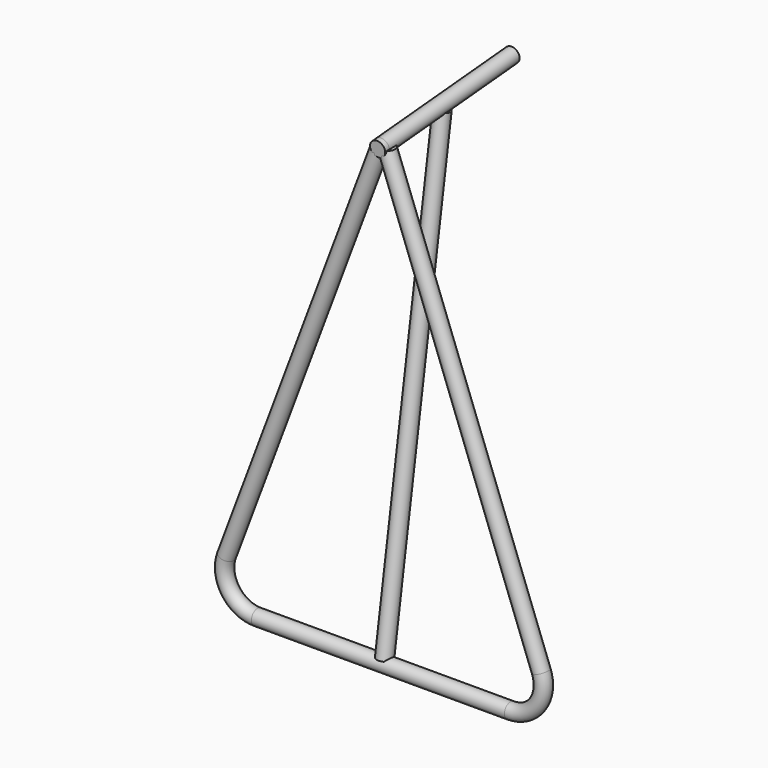
from build123d import *

# Parameters (mm, degrees)
F3_R           = 9
F7_W           = 211.4251245066
F7_H           = 70.145696709
F8_DEPTH       = 12.5
F9_R           = 9
F10_DEPTH      = 194
F10_DEPTH_BACK = 6
F16_START      = 5
F15_R          = 9
F16_DEPTH      = 545


with BuildPart() as f4:
    # F4: sweep along a path in F1
    with BuildLine(Plane.XZ) as f4_path:
        Line((-150, -39), (150, -39))
        ThreePointArc((150, -39), (182.0556281104, -22.2134352689), (186.5161856429, 13.6955535155))
        Line((186.5161856429, 13.6955535155), (0, 511))
        Line((0, 511), (-186.5161856429, 13.6955535155))
        ThreePointArc((-186.5161856429, 13.6955535155), (-182.0556281104, -22.2134352689), (-150, -39))
    # F3 (on line) → F4 (sweep)
    with BuildSketch(Plane.YZ.offset(150)):
        with Locations((0, -39)):
            Circle(F3_R)
    sweep(path=f4_path.line, transition=Transition.RIGHT)

    # F7 (on Front) → F8 (cut, symmetric)
    with BuildSketch(Plane.XZ):
        with Locations((16.5445394814, 537.0728483545)):
            Rectangle(F7_W, F7_H)
    extrude(amount=F8_DEPTH, both=True, mode=Mode.SUBTRACT)

    # F9 (on face) → F10 (join, two sides)
    with BuildSketch(Plane(origin=(0, 40.1639663204, 3.5138917353), x_dir=(-1, 0, 0), z_dir=(0, 0.9961946981, 0.0871557427))) as f10_sk:
        with Locations((0, 500.8241835071)):
            Circle(F9_R)
    extrude(amount=F10_DEPTH)
    extrude(f10_sk.sketch, amount=-F10_DEPTH_BACK)


with BuildPart() as f16:
    # F15 (on line) → F16 (new body)
    with BuildSketch(Plane(origin=(0, -6.0258313903, -38.0456020678), x_dir=(1, 0, 0), z_dir=(0, 0.156434465, 0.9876883406)).offset(F16_START)):
        with Locations((0, 6.1009441366)):
            Circle(F15_R)
    extrude(amount=F16_DEPTH)

    # F17: cut F4
    add(f4.part, mode=Mode.SUBTRACT)


solid = Compound([f4.part, f16.part])
